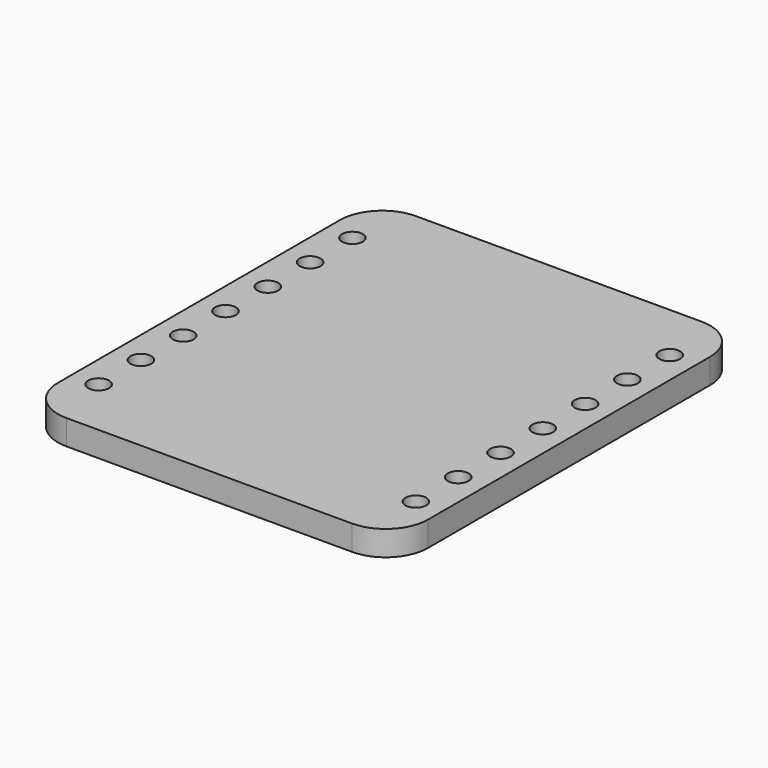
from build123d import *

# Parameters (mm, degrees)
CYLINDER010_R     = 0.5
CYLINDER010_DEPTH = 2
ARRAY_X_COUNT     = 2
ARRAY_X_PITCH     = 15.24
ARRAY_Y_COUNT     = 7
ARRAY_Y_PITCH     = 2.54
BOX028_W          = 17.78
BOX028_H          = 20.9982
BOX028_DEPTH      = 1.2
FILLET009_R       = 2.03


with BuildPart() as obj1:
    # Cylinder010 → Cylinder010 (new body)
    with BuildSketch(Plane(origin=(-7.62, -7.62, 0), x_dir=(1, 0, 0), z_dir=(0, 0, 1))):
        Circle(CYLINDER010_R)
    extrude(amount=CYLINDER010_DEPTH)

    # Array X: obj1_2


with BuildPart() as obj1_1:
    add(obj1.part)
    with Locations(*[(i * ARRAY_X_PITCH, 0, 0) for i in range(1, ARRAY_X_COUNT)]):
        add(obj1.part)

    # Array Y: obj1 ×7


with BuildPart() as obj1_2:
    add(obj1_1.part)
    with Locations(*[(0, i * ARRAY_Y_PITCH, 0) for i in range(1, ARRAY_Y_COUNT)]):
        add(obj1_1.part)


with BuildPart() as obj2:
    # Box028 → Box028 (new body)
    with BuildSketch(Plane(origin=(-8.89, -10.508, 0), x_dir=(1, 0, 0), z_dir=(0, 0, 1))):
        with Locations((8.89, 10.4991)):
            Rectangle(BOX028_W, BOX028_H)
    extrude(amount=BOX028_DEPTH)

    # Fillet009
    fillet009_edges = [obj2.edges().sort_by_distance(p)[0] for p in [
        (-8.89, -10.508, 0.6),
        (-8.89, 10.4902, 0.6),
        (8.89, -10.508, 0.6),
        (8.89, 10.4902, 0.6),
    ]]
    fillet(fillet009_edges, radius=FILLET009_R)

    # Cut004: cut obj1
    add(obj1_2.part, mode=Mode.SUBTRACT)


solid = obj2.part
